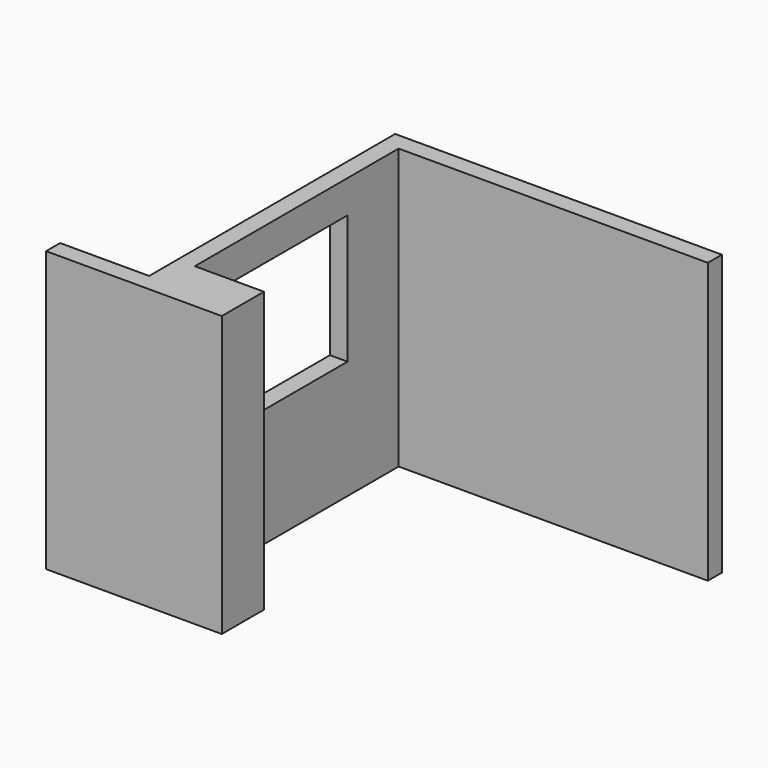
from build123d import *

# Parameters (mm, degrees)
F2_DEPTH   = 2390
F3_W       = 1360
F3_H       = 1100
F2_FACE1_W = 2775
F2_FACE1_H = 2390
F4_DEPTH   = 160


with BuildPart() as f2:
    # F1 (on face) → F2 (new body)
    with BuildSketch(Plane.XY):
        Polygon((-4260.9244754411, 7669.9256300804), (-1610.9244754411, 7669.9256300804), (-1610.9244754411, 5044.9256300804), (-1460.9244754411, 5044.9256300804), (-1460.9244754411, 7819.9256300804), (-4410.9244754411, 7819.9256300804), (-4410.9244754411, 5194.9256300808), (-5170.9244754411, 5194.9256300808), (-5170.9244754411, 5044.9256300808), (-3670.9244754411, 5044.9256300808), (-3670.9244754411, 5494.9256300804), (-4260.9244754411, 5494.9256300804), align=None)
    extrude(amount=F2_DEPTH)

    # F3 (on face) + F2_face1 (on face) → F4 (cut)
    with BuildSketch(Plane.YZ.offset(-4260.9244754411)):
        with Locations((6444.9256300804, 1560)):
            Rectangle(F3_W, F3_H)
    with BuildSketch(Plane(origin=(-1460.9244754411, 6432.4256300804, 1195), x_dir=(0, 1, 0), z_dir=(1, 0, 0))):
        Rectangle(F2_FACE1_W, F2_FACE1_H)
    extrude(amount=-F4_DEPTH, mode=Mode.SUBTRACT)


solid = f2.part
